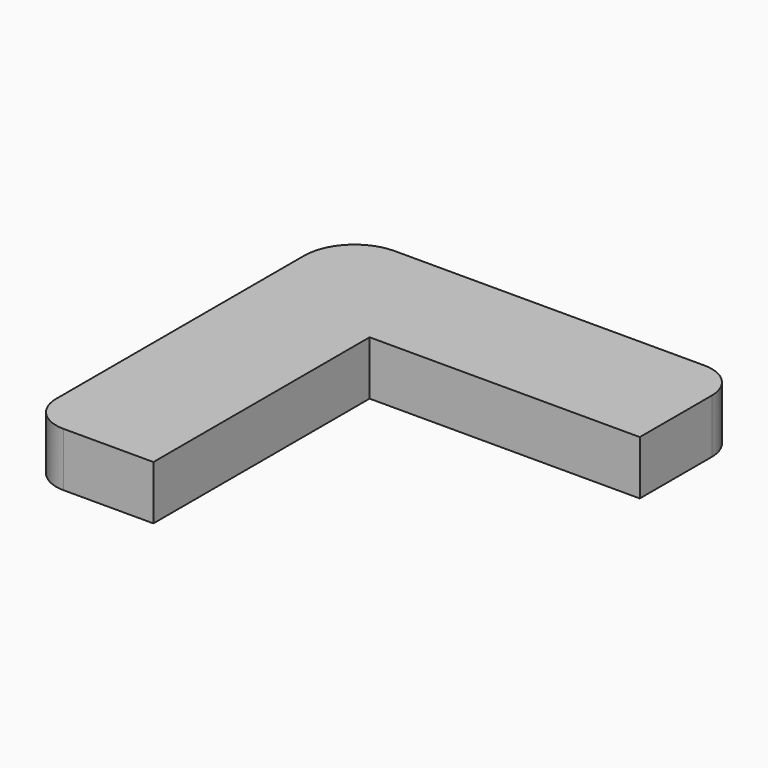
from build123d import *

# Parameters (mm, degrees)
F1_DEPTH = 3
F2_R     = 2.8
F3_R     = 2
F5_DEPTH = 2


with BuildPart() as f1:
    # F0 (on Top) → F1 (new body)
    with BuildSketch(Plane.XY):
        Polygon((0, -15), (0, 0), (15, 0), (15, 7), (-7, 7), (-7, -15), align=None)
    extrude(amount=F1_DEPTH)

    # F2
    f2_edges = [f1.edges().sort_by_distance(p)[0] for p in [
        (-7, 7, 1.5),
    ]]
    fillet(f2_edges, radius=F2_R)

    # F3
    f3_edges = [f1.edges().sort_by_distance(p)[0] for p in [
        (15, 7, 1.5),
        (-7, -15, 1.5),
    ]]
    fillet(f3_edges, radius=F3_R)

    # F4 (on face) → F5 (cut)
    with BuildSketch(Plane(origin=(0, 0, 0), x_dir=(1, 0, 0), z_dir=(0, 0, -1))):
        with BuildLine():
            ThreePointArc((-1.322323, -3.644969), (-1.321403, -3.60783), (-1.321097, -3.570682))
            ThreePointArc((-1.321097, -3.570682), (-1.971123, -1.988726), (-3.545615, -1.320826))
            ThreePointArc((-3.545615, -1.320826), (-5.196971, -5.126005), (-1.322323, -3.644969))
        make_face()
        with BuildLine():
            ThreePointArc((-1.322323, -3.644969), (-5.196971, -5.126005), (-3.545615, -1.320826))
            Line((-3.545615, -1.320826), (-7, -1.281702))
            Line((-7, -1.281702), (-7, -4.2))
            ThreePointArc((-7, -4.2), (-6.179899, -6.179899), (-4.2, -7))
            Line((-4.2, -7), (-1.322323, -7))
            Line((-1.322323, -7), (-1.322323, -3.644969))
        make_face()
    extrude(amount=-F5_DEPTH, mode=Mode.SUBTRACT)


solid = f1.part
